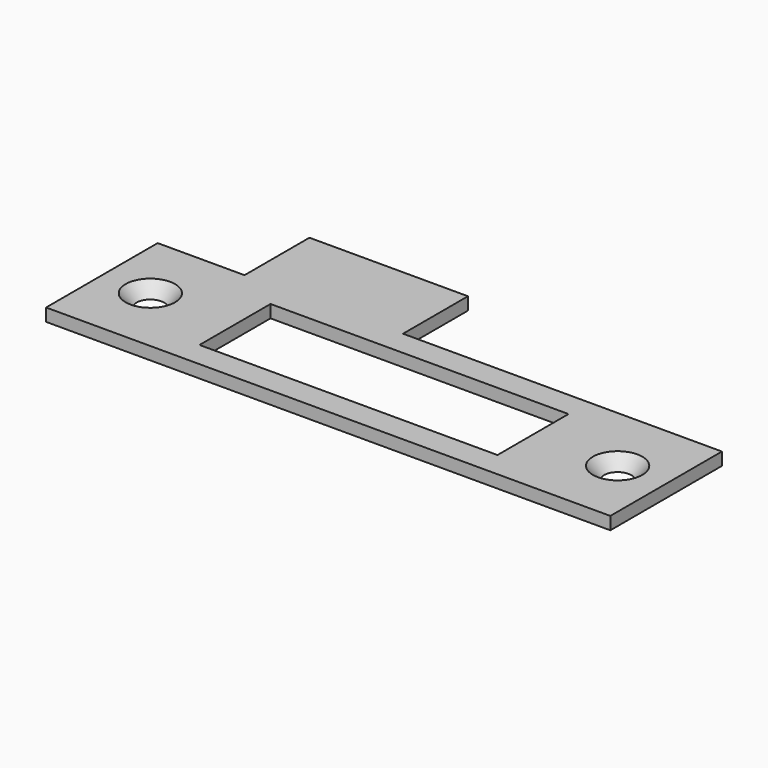
from build123d import *

# Parameters (mm, degrees)
F0_W           = 47
F0_H           = 14
F0_W_2         = 25
F0_H_2         = 12.8
F1_DEPTH       = 2
F3_D           = 3.7973
F3_CSINK_D     = 7.7978
F3_CSINK_ANGLE = 82


with BuildPart() as f1:
    # F0 (on Top) → F1 (new body)
    with BuildSketch(Plane.XY):
        Polygon((-44.5, 11), (-44.5, -11), (44.5, -11), (44.5, 11), (-5.8, 11), (-30.8, 11), align=None)
        Rectangle(F0_W, F0_H, mode=Mode.SUBTRACT)
        with Locations((-18.3, 17.4)):
            Rectangle(F0_W_2, F0_H_2)
    extrude(amount=F1_DEPTH)

    # F3 (through all)
    with Locations(Plane.XY.offset(2)):
        with Locations((-36.85, 0), (36.85, 0)):
            CounterSinkHole(F3_D / 2, F3_CSINK_D / 2, counter_sink_angle=F3_CSINK_ANGLE)


solid = f1.part
